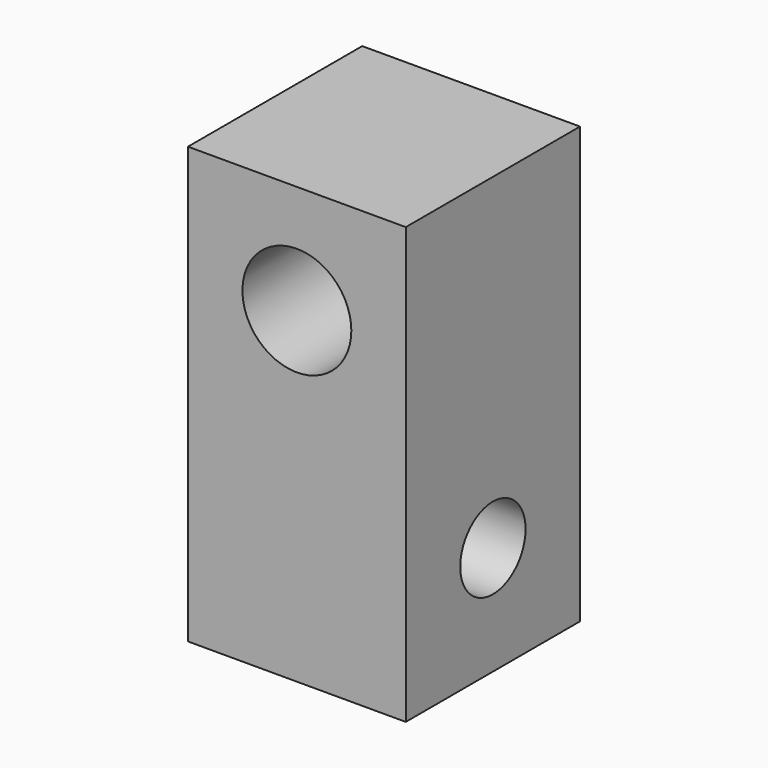
from build123d import *

# Parameters (mm, degrees)
F0_W     = 25.4
F0_H     = 50.8
F1_DEPTH = 25.4
F2_R     = 6.35
F3_DEPTH = 19.05
F4_R     = 4.7625
F5_DEPTH = 25.4


with BuildPart() as f1:
    # F0 (on Front) → F1 (new body)
    with BuildSketch(Plane.XZ):
        with Locations((-12.958675, -15.683598)):
            Rectangle(F0_W, F0_H)
    extrude(amount=F1_DEPTH)

    # F2 (on face) → F3 (cut)
    with BuildSketch(Plane.XZ.offset(25.4)):
        with Locations((-12.958675, -2.983598)):
            Circle(F2_R)
    extrude(amount=-F3_DEPTH, mode=Mode.SUBTRACT)

    # F4 (on face) → F5 (cut)
    with BuildSketch(Plane.YZ.offset(-0.258675)):
        with Locations((-12.7, -28.383598)):
            Circle(F4_R)
    extrude(amount=-F5_DEPTH, mode=Mode.SUBTRACT)


solid = f1.part
